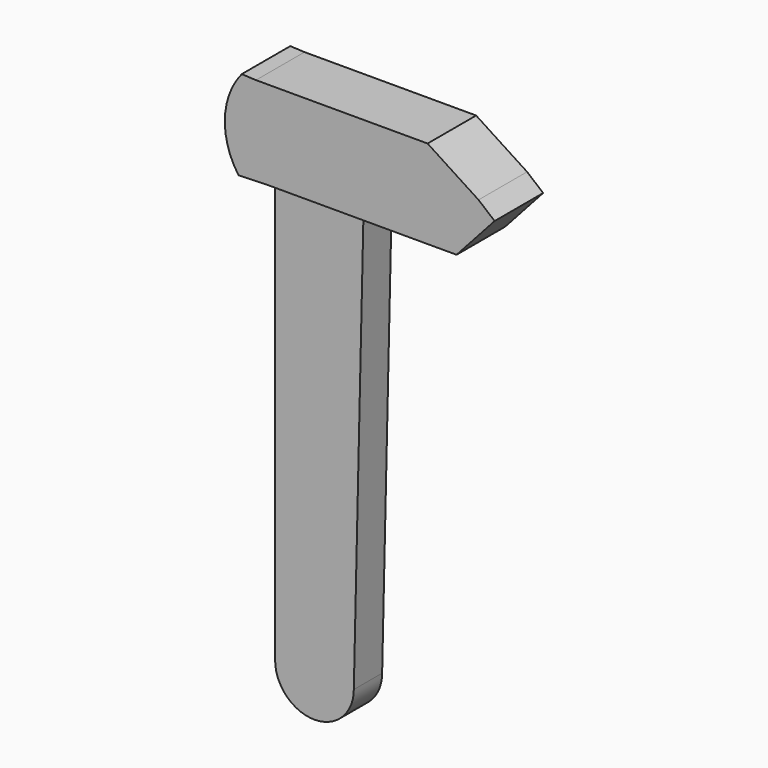
from build123d import *

# Parameters (mm, degrees)
F1_DEPTH = 0.889
F2_DEPTH = 1.524


with BuildPart() as f1:
    # F0 (on Front) → F1 (new body, symmetric)
    with BuildSketch(Plane.XZ):
        with BuildLine():
            Line((1.327608, -27.277179), (1.816115, -5.952824))
            Line((1.816115, -5.952824), (-2.623277, -5.952824))
            Line((-2.623277, -5.952824), (-2.623277, -27.277179))
            ThreePointArc((-2.623277, -27.277179), (-0.647834, -29.252622), (1.327608, -27.277179))
        make_face()
    extrude(amount=F1_DEPTH, both=True)

    # F0 (on Front) → F2 (join, symmetric)
    with BuildSketch(Plane.XZ):
        with BuildLine():
            Line((-2.623277, -5.952824), (1.816115, -5.952824))
            Line((1.816115, -5.952824), (4.033533, -5.952824))
            Line((4.033533, -5.952824), (6.996475, -5.952824))
            Line((6.996475, -5.952824), (8.907864, -3.839395))
            Line((8.907864, -3.839395), (8.099831, -3.165916))
            Line((8.099831, -3.165916), (5.540981, -1.507046))
            Line((5.540981, -1.507046), (2.552063, -1.507046))
            Line((2.552063, -1.507046), (-0.735558, -1.507046))
            Line((-0.735558, -1.507046), (-2.122533, -1.507046))
            Line((-2.122533, -1.507046), (-3.079158, -1.507046))
            Line((-3.079158, -1.507046), (-3.793383, -1.473681))
            ThreePointArc((-3.793383, -1.473681), (-4.641575, -3.707847), (-3.955338, -5.996954))
            Line((-3.955338, -5.996954), (-2.623277, -5.952824))
        make_face()
    extrude(amount=F2_DEPTH, both=True)


solid = f1.part
